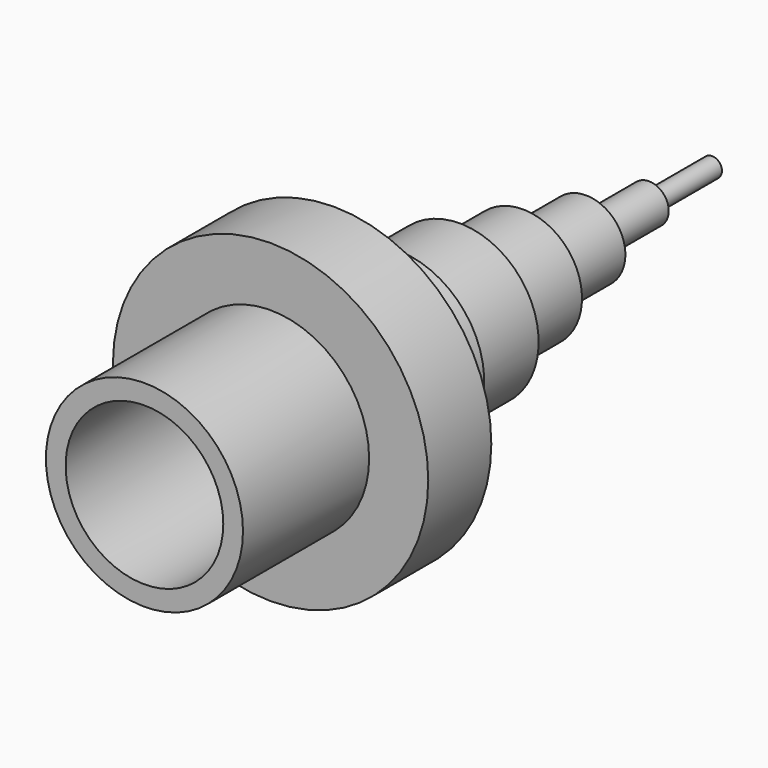
from build123d import *

# Parameters (mm, degrees)
F0_R      = 40
F1_DEPTH  = 20
F2_R      = 25
F3_DEPTH  = 40
F4_R      = 20
F5_DEPTH  = 40
F6_R      = 22.1974572785
F7_DEPTH  = 20
F8_R      = 20
F9_DEPTH  = 20
F10_R     = 15
F11_DEPTH = 20
F12_R     = 10
F13_DEPTH = 20
F14_R     = 5
F15_DEPTH = 20
F16_R     = 2.5
F17_DEPTH = 20


with BuildPart() as f1:
    # F0 (on Front) → F1 (new body)
    with BuildSketch(Plane.XZ):
        Circle(F0_R)
    extrude(amount=F1_DEPTH)

    # F2 (on face) → F3 (join)
    with BuildSketch(Plane.XZ.offset(20)):
        Circle(F2_R)
    extrude(amount=F3_DEPTH)

    # F4 (on face) → F5 (cut)
    with BuildSketch(Plane.XZ.offset(60)):
        Circle(F4_R)
    extrude(amount=-F5_DEPTH, mode=Mode.SUBTRACT)

    # F6 (on face) → F7 (join)
    with BuildSketch(Plane(origin=(0, 0, 0), x_dir=(-1, 0, 0), z_dir=(0, 1, 0))):
        Circle(F6_R)
    extrude(amount=F7_DEPTH)

    # F8 (on face) → F9 (join)
    with BuildSketch(Plane(origin=(0, 20, 0), x_dir=(-1, 0, 0), z_dir=(0, 1, 0))):
        Circle(F8_R)
    extrude(amount=F9_DEPTH)

    # F10 (on face) → F11 (join)
    with BuildSketch(Plane(origin=(0, 40, 0), x_dir=(-1, 0, 0), z_dir=(0, 1, 0))):
        Circle(F10_R)
    extrude(amount=F11_DEPTH)

    # F12 (on face) → F13 (join)
    with BuildSketch(Plane(origin=(0, 60, 0), x_dir=(-1, 0, 0), z_dir=(0, 1, 0))):
        Circle(F12_R)
    extrude(amount=F13_DEPTH)

    # F14 (on face) → F15 (join)
    with BuildSketch(Plane(origin=(0, 80, 0), x_dir=(-1, 0, 0), z_dir=(0, 1, 0))):
        Circle(F14_R)
    extrude(amount=F15_DEPTH)

    # F16 (on face) → F17 (join)
    with BuildSketch(Plane(origin=(0, 100, 0), x_dir=(-1, 0, 0), z_dir=(0, 1, 0))):
        Circle(F16_R)
    extrude(amount=F17_DEPTH)


solid = f1.part
